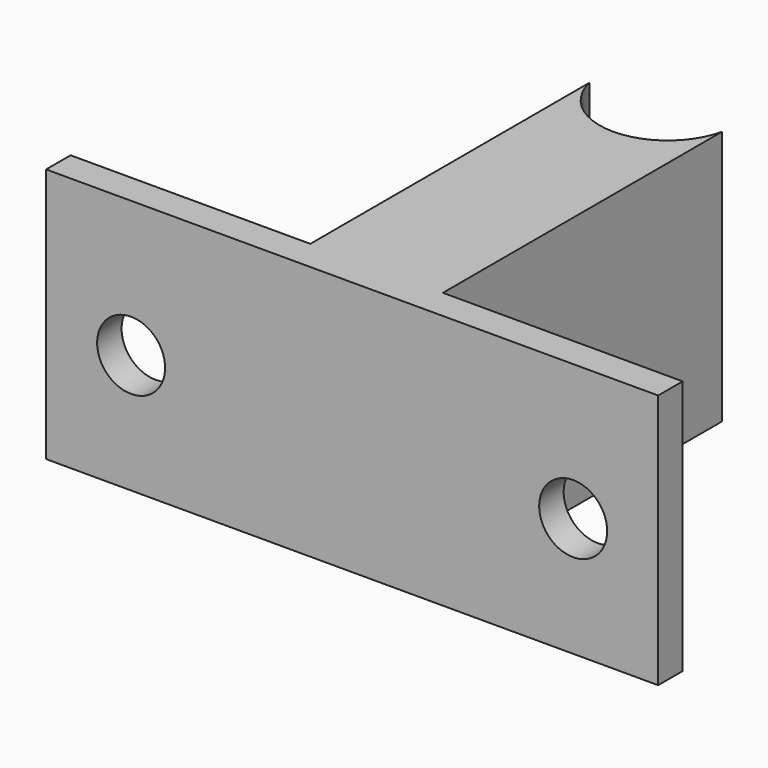
from build123d import *

# Parameters (mm, degrees)
F1_DEPTH = 15
F2_R     = 2
F3_DEPTH = 3


with BuildPart() as f1:
    # F0 (on Top) → F1 (new body)
    with BuildSketch(Plane.XY):
        with BuildLine():
            Line((-18, 0.9), (-18, -0.9))
            Line((-18, -0.9), (18, -0.9))
            Line((18, -0.9), (18, 0.9))
            Line((18, 0.9), (3.9, 0.9))
            Line((3.9, 0.9), (3.9, 21.411181))
            ThreePointArc((3.9, 21.411181), (0, 18.3), (-3.9, 21.411181))
            Line((-3.9, 21.411181), (-3.9, 0.9))
            Line((-3.9, 0.9), (-18, 0.9))
        make_face()
    extrude(amount=F1_DEPTH)

    # F2 (on face) → F3 (cut)
    with BuildSketch(Plane(origin=(0, 0.9, 0), x_dir=(-1, 0, 0), z_dir=(0, 1, 0))):
        with Locations((-13, 7)):
            Circle(F2_R)
        with Locations((13, 7)):
            Circle(F2_R)
    extrude(amount=-F3_DEPTH, mode=Mode.SUBTRACT)


solid = f1.part
